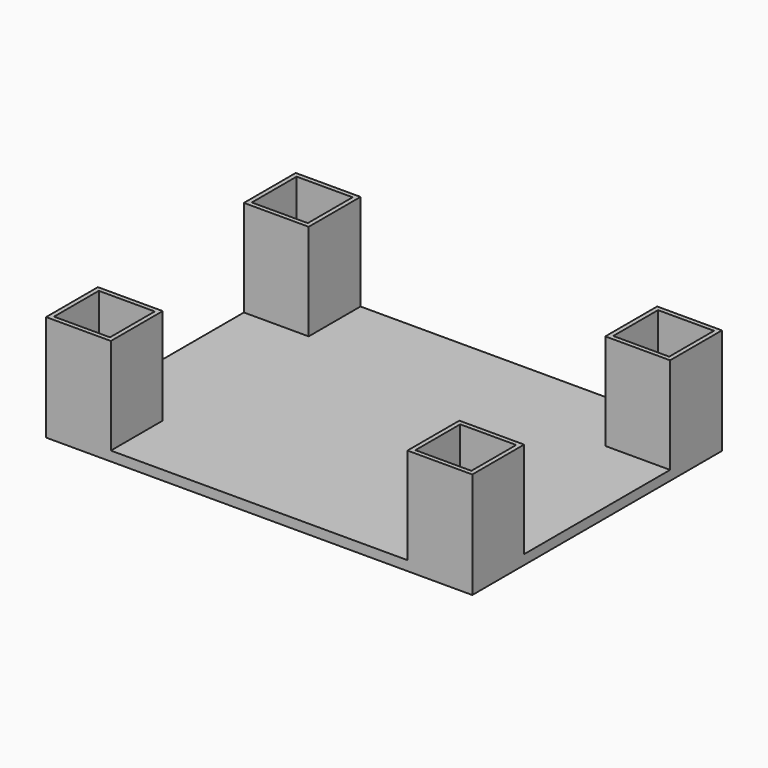
from build123d import *

# Parameters (mm, degrees)
F0_W     = 196.342
F0_H     = 143.764
F1_DEPTH = 4.445
F2_W     = 29.845
F2_H     = 29.845
F2_W_2   = 25.781
F2_H_2   = 25.781
F3_DEPTH = 44.45


with BuildPart() as f1:
    # F0 (on Top) → F1 (new body)
    with BuildSketch(Plane.XY):
        with Locations((9.649968, -21.351978)):
            Rectangle(F0_W, F0_H)
    extrude(amount=F1_DEPTH)

    # F2 (on face) → F3 (join)
    with BuildSketch(Plane.XY.offset(4.445)):
        with Locations((-73.598532, 35.607522)):
            Rectangle(F2_W, F2_H)
        with Locations((-73.598532, 35.607522)):
            Rectangle(F2_W_2, F2_H_2, mode=Mode.SUBTRACT)
        with Locations((92.898468, 35.607522)):
            Rectangle(F2_W, F2_H)
        with Locations((92.898468, 35.607522)):
            Rectangle(F2_W_2, F2_H_2, mode=Mode.SUBTRACT)
        with Locations((92.898468, -78.311478)):
            Rectangle(F2_W, F2_H)
        with Locations((92.898468, -78.311478)):
            Rectangle(F2_W_2, F2_H_2, mode=Mode.SUBTRACT)
        with Locations((-73.598532, -78.311478)):
            Rectangle(F2_W, F2_H)
        with Locations((-73.598532, -78.311478)):
            Rectangle(F2_W_2, F2_H_2, mode=Mode.SUBTRACT)
    extrude(amount=F3_DEPTH)


solid = f1.part
